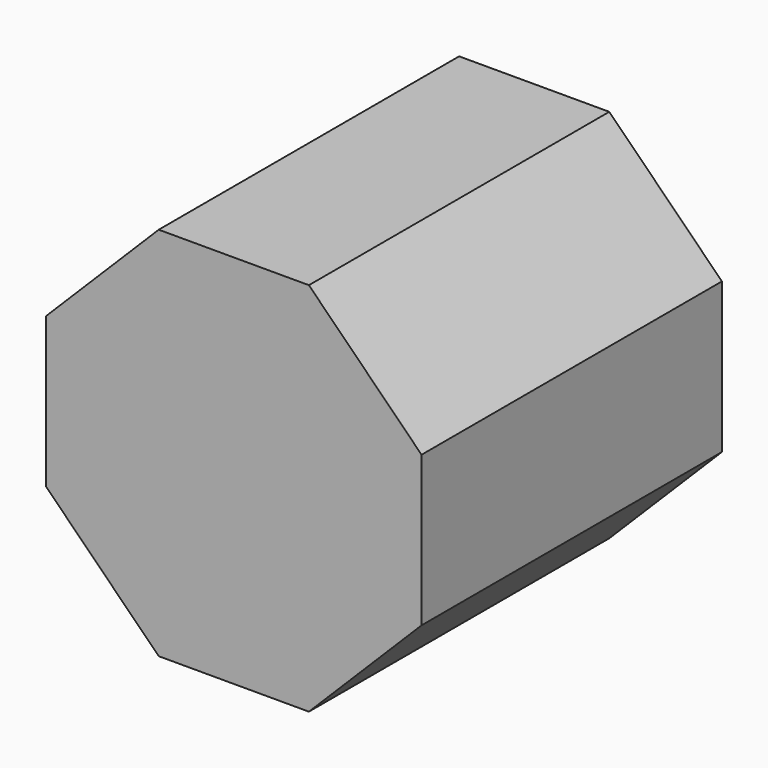
from build123d import *

# Parameters (mm, degrees)
F0_W     = 12.7
F0_H     = 12.7
F0_W_2   = 7.62
F0_H_2   = 7.62
F0_W_3   = 6.35
F0_H_3   = 6.35
F1_DEPTH = 12.7
F2_DEPTH = 7.62
F3_DEPTH = 7.62
F4_DEPTH = 5.08
F5_SIZE  = 3.81


with BuildPart() as f1:
    # F0 (on Front) → F1 (new body)
    with BuildSketch(Plane.XZ):
        Rectangle(F0_W, F0_H)
        Rectangle(F0_W_2, F0_H_2, mode=Mode.SUBTRACT)
        Rectangle(F0_W_2, F0_H_2)
        Rectangle(F0_W_3, F0_H_3, mode=Mode.SUBTRACT)
        Rectangle(F0_W_3, F0_H_3)
    extrude(amount=F1_DEPTH)

    # F0 (on Front) → F2 (cut)
    with BuildSketch(Plane.XZ):
        Rectangle(F0_W_3, F0_H_3)
    extrude(amount=F2_DEPTH, mode=Mode.SUBTRACT)

    # F0 (on Front) → F3 (cut)
    with BuildSketch(Plane.XZ):
        Rectangle(F0_W_2, F0_H_2)
        Rectangle(F0_W_3, F0_H_3, mode=Mode.SUBTRACT)
    extrude(amount=F3_DEPTH, mode=Mode.SUBTRACT)

    # F0 (on Front) → F4 (join)
    with BuildSketch(Plane.XZ):
        Rectangle(F0_W_2, F0_H_2)
        Rectangle(F0_W_3, F0_H_3, mode=Mode.SUBTRACT)
    extrude(amount=F4_DEPTH)

    # F5
    f5_edges = [f1.edges().sort_by_distance(p)[0] for p in [
        (-6.35, -6.35, -6.35),
        (6.35, -6.35, -6.35),
        (6.35, -6.35, 6.35),
        (-6.35, -6.35, 6.35),
    ]]
    chamfer(f5_edges, length=F5_SIZE)


solid = f1.part
